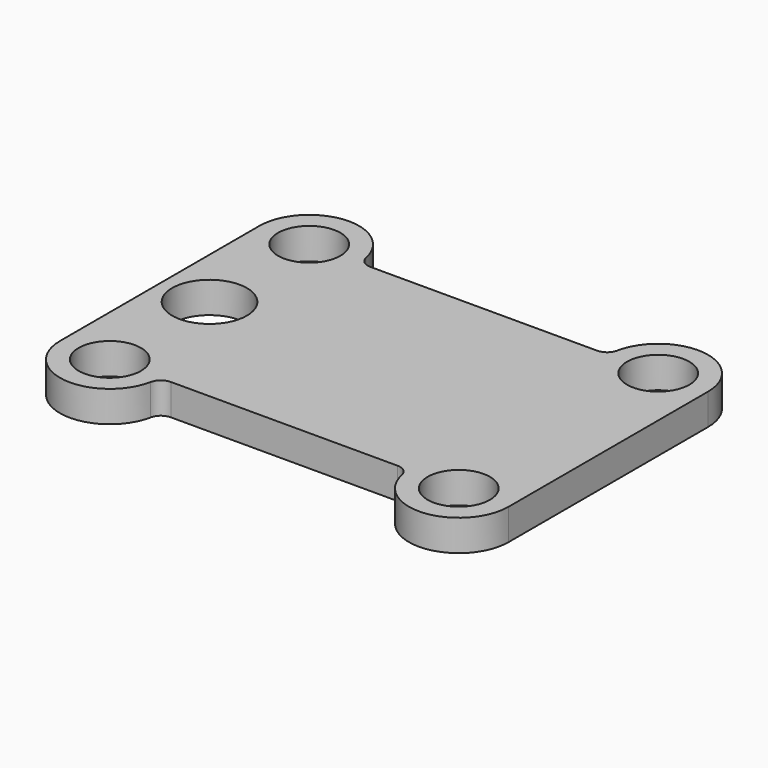
from build123d import *

# Parameters (mm, degrees)
F0_R     = 30
F0_R_2   = 25
F1_DEPTH = 25
F2_R     = 10


with BuildPart() as f1:
    # F0 (on Top) → F1 (new body)
    with BuildSketch(Plane.XY):
        with BuildLine():
            Line((100, 100), (-100, 100))
            ThreePointArc((-100, 100), (-140, 60), (-180, 100))
            Line((-180, 100), (-180, -100))
            ThreePointArc((-180, -100), (-140, -60), (-100, -100))
            Line((-100, -100), (100, -100))
            ThreePointArc((100, -100), (140, -60), (180, -100))
            Line((180, -100), (180, 100))
            ThreePointArc((180, 100), (140, 60), (100, 100))
        make_face()
        with Locations((-140, 0)):
            Circle(F0_R, mode=Mode.SUBTRACT)
        with BuildLine():
            ThreePointArc((-180, 100), (-140, 60), (-100, 100))
            ThreePointArc((-100, 100), (-140, 140), (-180, 100))
        make_face()
        with Locations((-140, 100)):
            Circle(F0_R_2, mode=Mode.SUBTRACT)
        with BuildLine():
            ThreePointArc((180, 100), (140, 140), (100, 100))
            ThreePointArc((100, 100), (140, 60), (180, 100))
        make_face()
        with Locations((140, 100)):
            Circle(F0_R_2, mode=Mode.SUBTRACT)
        with BuildLine():
            ThreePointArc((100, -100), (140, -140), (180, -100))
            ThreePointArc((180, -100), (140, -60), (100, -100))
        make_face()
        with Locations((140, -100)):
            Circle(F0_R_2, mode=Mode.SUBTRACT)
        with BuildLine():
            ThreePointArc((-100, -100), (-140, -60), (-180, -100))
            ThreePointArc((-180, -100), (-140, -140), (-100, -100))
        make_face()
        with Locations((-140, -100)):
            Circle(F0_R_2, mode=Mode.SUBTRACT)
    extrude(amount=F1_DEPTH)

    # F2
    f2_edges = [f1.edges().sort_by_distance(p)[0] for p in [
        (-100, -100, 12.5),
        (100, -100, 12.5),
        (-100, 100, 12.5),
        (100, 100, 12.5),
    ]]
    fillet(f2_edges, radius=F2_R)


solid = f1.part
